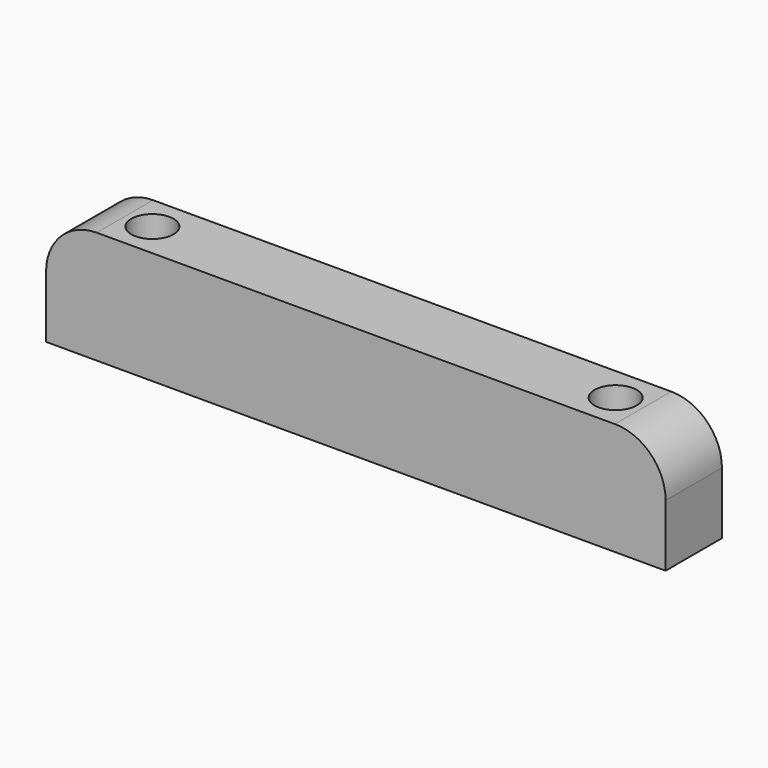
from build123d import *

# Parameters (mm, degrees)
F1_DEPTH = 6.35
F2_R     = 1.905
F3_DEPTH = 25.4


with BuildPart() as f1:
    # F0 (on Front) → F1 (new body)
    with BuildSketch(Plane.XZ):
        with BuildLine():
            ThreePointArc((27.94, 0.508), (26.600892, 3.740892), (23.368, 5.08))
            Line((23.368, 5.08), (-23.368, 5.08))
            ThreePointArc((-23.368, 5.08), (-26.600892, 3.740892), (-27.94, 0.508))
            Line((-27.94, 0.508), (-27.94, -5.08))
            Line((-27.94, -5.08), (27.94, -5.08))
            Line((27.94, -5.08), (27.94, 0.508))
        make_face()
    extrude(amount=F1_DEPTH)

    # F2 (on face) → F3 (cut)
    with BuildSketch(Plane(origin=(0, 0, -5.08), x_dir=(1, 0, 0), z_dir=(0, 0, -1))):
        with Locations((20.8915, 3.175)):
            Circle(F2_R)
        with Locations((-20.8915, 3.175)):
            Circle(F2_R)
    extrude(amount=-F3_DEPTH, mode=Mode.SUBTRACT)


solid = f1.part
